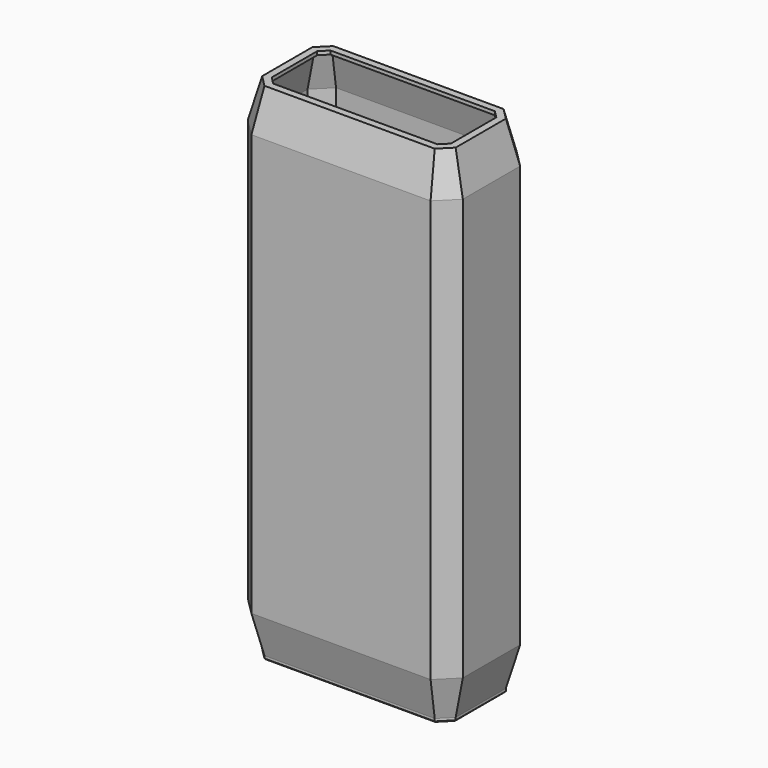
from build123d import *

# Parameters (mm, degrees)
F1_DEPTH = 70
F2_SIZE2 = 11.1961524227
F2_SIZE  = 3
F4_T     = -1
F5_DEPTH = 1
F6_SIZE  = 0.3


with BuildPart() as f1:
    # F0 (on Top) → F1 (new body)
    with BuildSketch(Plane.XY):
        Polygon((30, 10), (25, 15), (-25, 15), (-30, 10), (-30, -10), (-25, -15), (25, -15), (30, -10), align=None)
        Polygon((-22.9289321881, 10), (22.9289321881, 10), (25, 7.9289321881), (25, -7.9289321881), (22.9289321881, -10), (-22.9289321881, -10), (-25, -7.9289321881), (-25, 7.9289321881), align=None, mode=Mode.SUBTRACT)
    extrude(amount=F1_DEPTH)

    # F2
    f2_edges = [f1.edges().sort_by_distance(p)[0] for p in [
        (-30, 0, 70),
        (-27.5, -12.5, 70),
        (0, -15, 70),
        (27.5, -12.5, 70),
        (30, 0, 70),
        (27.5, 12.5, 70),
        (0, 15, 70),
        (-27.5, 12.5, 70),
    ]]
    f2_side = f1.faces().sort_by_distance((27.025658, 12.025658, 70))[0]
    chamfer(f2_edges, length=F2_SIZE, length2=F2_SIZE2, reference=f2_side)

    # F3: F1 across face


with BuildPart() as f1_1:
    add(f1.part)
    add(f1.part.mirror(Plane(origin=(0, 0, 0), x_dir=(1, 0, 0), z_dir=(0, 0, -1))))

    # F4
    f4_openings = [f1_1.faces().sort_by_distance(p)[0] for p in [
        (-25, 0, 0),
        (-23.964466, 8.964466, 0),
        (0, 10, 0),
        (23.964466, 8.964466, 0),
        (25, 0, 0),
        (0, -10, 0),
        (-23.964466, -8.964466, 0),
        (23.964466, -8.964466, 0),
    ]]
    offset(amount=F4_T, openings=f4_openings)

    # F5 (add): a face of the model
    f5_faces = [f1_1.faces().sort_by_distance(p)[0] for p in [
        (-26.4090685319, 0, -70),
    ]]
    extrude(f5_faces, amount=F5_DEPTH)

    # F6
    f6_edges = [f1_1.edges().sort_by_distance(p)[0] for p in [
        (-27, 0, -71),
        (-25.37868, 10.37868, -71),
        (-25.37868, -10.37868, -71),
        (0, 12, -71),
        (0, -12, -71),
        (25.37868, 10.37868, -71),
        (25.37868, -10.37868, -71),
        (27, 0, -71),
        (0, 10, -71),
        (23.964466, 8.964466, -71),
        (25, 0, -71),
        (23.964466, -8.964466, -71),
        (0, -10, -71),
        (-23.964466, -8.964466, -71),
        (-25, 0, -71),
        (-23.964466, 8.964466, -71),
    ]]
    chamfer(f6_edges, length=F6_SIZE)


solid = f1_1.part
